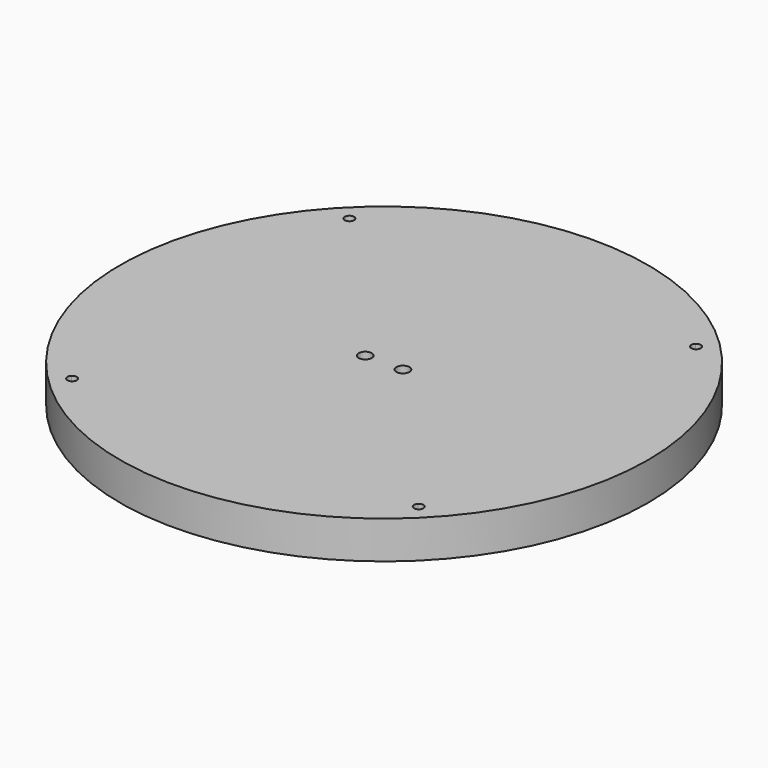
from build123d import *

# Parameters (mm, degrees)
F0_R     = 140
F1_DEPTH = 20
F2_R     = 3.5
F3_DEPTH = 20.001
F5_DEPTH = 25


with BuildPart() as f1:
    # F0 (on Top) → F1 (new body)
    with BuildSketch(Plane.XY):
        Circle(F0_R)
    extrude(amount=F1_DEPTH)

    # F2 (on face) → F3 (cut, through all)
    with BuildSketch(Plane.XY.offset(20)):
        with Locations((-10, 0)):
            Circle(F2_R)
        with Locations((10, 0)):
            Circle(F2_R)
    extrude(amount=-F3_DEPTH, mode=Mode.SUBTRACT)

    # F4 (on face) → F5 (cut)
    with BuildSketch(Plane.XY.offset(20)):
        with BuildLine():
            ThreePointArc((-91.923882, 91.923882), (-91.035749, 92.803515), (-90.139199, 93.674569))
            ThreePointArc((-90.139199, 93.674569), (-93.691649, 93.691649), (-93.674569, 90.139199))
            ThreePointArc((-93.674569, 90.139199), (-92.803515, 91.035749), (-91.923882, 91.923882))
        make_face()
        with BuildLine():
            ThreePointArc((-89.423882, 91.923882), (-89.60961, 92.869475), (-90.139199, 93.674569))
            ThreePointArc((-90.139199, 93.674569), (-91.035749, 92.803515), (-91.923882, 91.923882))
            Line((-91.923882, 91.923882), (-90.156115, 90.156115))
            ThreePointArc((-90.156115, 90.156115), (-89.614183, 90.967173), (-89.423882, 91.923882))
        make_face()
        with BuildLine():
            ThreePointArc((-93.674569, 90.139199), (-91.911862, 89.42391), (-90.156115, 90.156115))
            Line((-90.156115, 90.156115), (-91.923882, 91.923882))
            ThreePointArc((-91.923882, 91.923882), (-92.803515, 91.035749), (-93.674569, 90.139199))
        make_face()
        with BuildLine():
            ThreePointArc((91.923882, 91.923882), (92.803515, 91.035749), (93.674569, 90.139199))
            ThreePointArc((93.674569, 90.139199), (94.228954, 90.95608), (94.423882, 91.923882))
            ThreePointArc((94.423882, 91.923882), (92.869475, 94.238153), (90.139199, 93.674569))
            ThreePointArc((90.139199, 93.674569), (91.035749, 92.803515), (91.923882, 91.923882))
        make_face()
        with BuildLine():
            Line((90.156115, 90.156115), (91.923882, 91.923882))
            ThreePointArc((91.923882, 91.923882), (91.035749, 92.803515), (90.139199, 93.674569))
            ThreePointArc((90.139199, 93.674569), (89.42391, 91.911862), (90.156115, 90.156115))
        make_face()
        with BuildLine():
            ThreePointArc((90.156115, 90.156115), (91.911862, 89.42391), (93.674569, 90.139199))
            ThreePointArc((93.674569, 90.139199), (92.803515, 91.035749), (91.923882, 91.923882))
            Line((91.923882, 91.923882), (90.156115, 90.156115))
        make_face()
        with BuildLine():
            ThreePointArc((-93.674569, -90.139199), (-93.691649, -93.691649), (-90.139199, -93.674569))
            ThreePointArc((-90.139199, -93.674569), (-91.035749, -92.803515), (-91.923882, -91.923882))
            ThreePointArc((-91.923882, -91.923882), (-92.803515, -91.035749), (-93.674569, -90.139199))
        make_face()
        with BuildLine():
            ThreePointArc((-89.423882, -91.923882), (-89.614183, -90.967173), (-90.156115, -90.156115))
            Line((-90.156115, -90.156115), (-91.923882, -91.923882))
            ThreePointArc((-91.923882, -91.923882), (-91.035749, -92.803515), (-90.139199, -93.674569))
            ThreePointArc((-90.139199, -93.674569), (-89.60961, -92.869475), (-89.423882, -91.923882))
        make_face()
        with BuildLine():
            Line((-91.923882, -91.923882), (-90.156115, -90.156115))
            ThreePointArc((-90.156115, -90.156115), (-91.911862, -89.42391), (-93.674569, -90.139199))
            ThreePointArc((-93.674569, -90.139199), (-92.803515, -91.035749), (-91.923882, -91.923882))
        make_face()
        with BuildLine():
            ThreePointArc((94.423882, -91.923882), (94.228954, -90.95608), (93.674569, -90.139199))
            ThreePointArc((93.674569, -90.139199), (92.803515, -91.035749), (91.923882, -91.923882))
            ThreePointArc((91.923882, -91.923882), (91.035749, -92.803515), (90.139199, -93.674569))
            ThreePointArc((90.139199, -93.674569), (92.869475, -94.238153), (94.423882, -91.923882))
        make_face()
        with BuildLine():
            ThreePointArc((90.139199, -93.674569), (91.035749, -92.803515), (91.923882, -91.923882))
            Line((91.923882, -91.923882), (90.156115, -90.156115))
            ThreePointArc((90.156115, -90.156115), (89.42391, -91.911862), (90.139199, -93.674569))
        make_face()
        with BuildLine():
            ThreePointArc((91.923882, -91.923882), (92.803515, -91.035749), (93.674569, -90.139199))
            ThreePointArc((93.674569, -90.139199), (91.911862, -89.42391), (90.156115, -90.156115))
            Line((90.156115, -90.156115), (91.923882, -91.923882))
        make_face()
    extrude(amount=-F5_DEPTH, mode=Mode.SUBTRACT)


solid = f1.part
